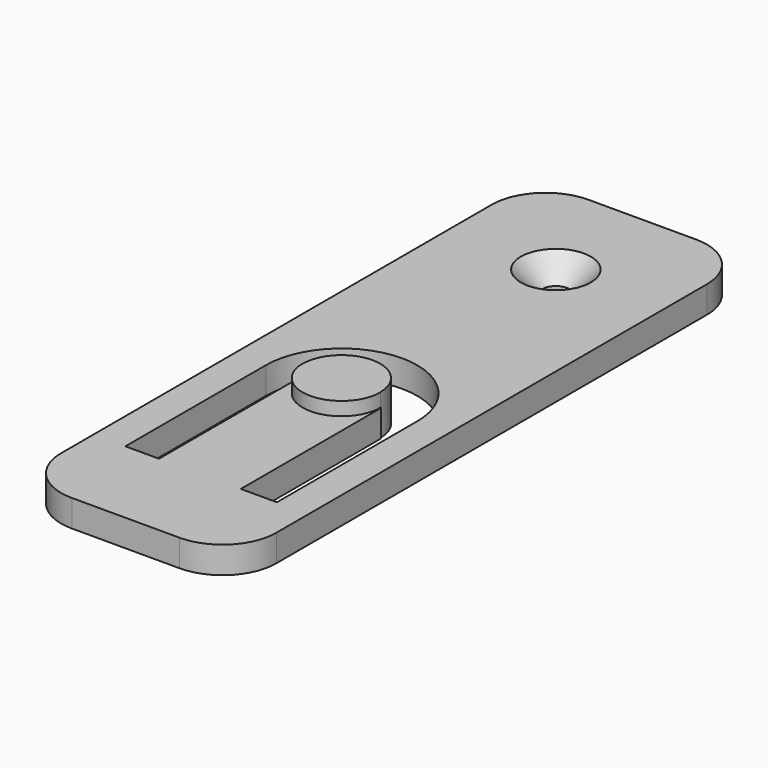
from build123d import *

# Parameters (mm, degrees)
F0_R     = 1.5875
F1_DEPTH = 3.175
F3_DEPTH = 1.5875
F4_SIZE  = 2.54


with BuildPart() as f1:
    # F0 (on Top) → F1 (new body)
    with BuildSketch(Plane.XY):
        with BuildLine():
            ThreePointArc((-38.094764, -12.153731), (-36.234892, -16.643859), (-31.744764, -18.503731))
            Line((-31.744764, -18.503731), (-19.044764, -18.503731))
            ThreePointArc((-19.044764, -18.503731), (-14.554635, -16.643859), (-12.694764, -12.153731))
            Line((-12.694764, -12.153731), (-12.694764, 51.346269))
            ThreePointArc((-12.694764, 51.346269), (-14.554635, 55.836397), (-19.044764, 57.696269))
            Line((-19.044764, 57.696269), (-31.744764, 57.696269))
            ThreePointArc((-31.744764, 57.696269), (-36.234892, 55.836397), (-38.094764, 51.346269))
            Line((-38.094764, 51.346269), (-38.094764, -12.153731))
        make_face()
        with BuildLine():
            Line((-29.952724, 13.335001), (-30.358404, 13.335001))
            Line((-30.358404, 13.335001), (-30.358404, -7.376809))
            Line((-30.358404, -7.376809), (-34.330532, -7.376809))
            Line((-34.330532, -7.376809), (-34.330532, 13.335001))
            ThreePointArc((-34.330532, 13.335001), (-25.393245, 22.272288), (-16.455958, 13.335001))
            Line((-16.455958, 13.335001), (-16.455958, -7.376809))
            Line((-16.455958, -7.376809), (-20.711809, -7.376809))
            Line((-20.711809, -7.376809), (-20.711809, 13.335001))
            Line((-20.711809, 13.335001), (-20.833766, 13.335001))
            ThreePointArc((-20.833766, 13.335001), (-25.393245, 17.89448), (-29.952724, 13.335001))
        make_face(mode=Mode.SUBTRACT)
        with Locations((-25.394764, 44.940945)):
            Circle(F0_R, mode=Mode.SUBTRACT)
    extrude(amount=F1_DEPTH)

    # F2 (on face) → F3 (join)
    with BuildSketch(Plane.XY.offset(3.175)):
        with BuildLine():
            ThreePointArc((-29.987899, 13.335001), (-25.393245, 8.740347), (-20.798591, 13.335001))
            Line((-20.798591, 13.335001), (-20.833766, 13.335001))
            ThreePointArc((-20.833766, 13.335001), (-25.393245, 17.89448), (-29.952724, 13.335001))
            Line((-29.952724, 13.335001), (-29.987899, 13.335001))
        make_face()
    extrude(amount=F3_DEPTH)

    # F4
    f4_edges = [f1.edges().sort_by_distance(p)[0] for p in [
        (-26.982264, 44.940945, 3.175),
    ]]
    chamfer(f4_edges, length=F4_SIZE)


solid = f1.part
